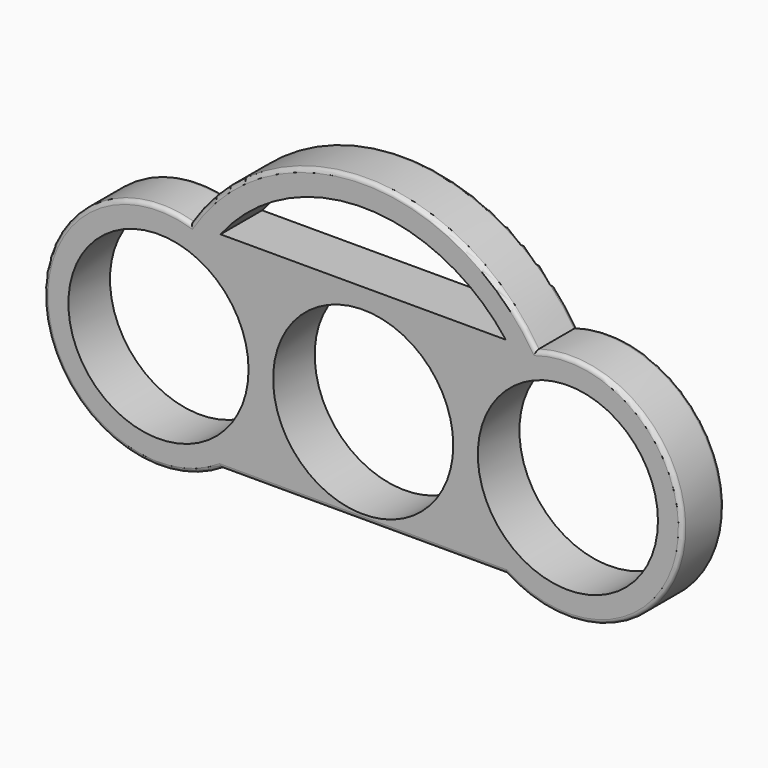
from build123d import *

# Parameters (mm, degrees)
F0_R     = 11
F1_DEPTH = 6.35
F2_R     = 0.5


with BuildPart() as f1:
    # F0 (on Front) → F1 (new body)
    with BuildSketch(Plane.XZ):
        with BuildLine():
            ThreePointArc((21.08, 13.44), (0, 25), (-21.08, 13.44))
            ThreePointArc((-21.08, 13.44), (-38.852036, -2.030049), (-17.388343, -11.750008))
            Line((-17.388343, -11.750008), (17.388343, -11.750008))
            ThreePointArc((17.388343, -11.750008), (38.852036, -2.030049), (21.08, 13.44))
        make_face()
        with Locations((-25, 0)):
            Circle(F0_R, mode=Mode.SUBTRACT)
        Circle(F0_R, mode=Mode.SUBTRACT)
        with Locations((25, 0)):
            Circle(F0_R, mode=Mode.SUBTRACT)
        with BuildLine():
            ThreePointArc((1.5, 21.948804), (10.371456, 19.401879), (17.417417, 13.44))
            Line((17.417417, 13.44), (1.5, 13.44))
            Line((1.5, 13.44), (-17.417417, 13.44))
            ThreePointArc((-17.417417, 13.44), (-9.024465, 20.063874), (1.5, 21.948804))
        make_face(mode=Mode.SUBTRACT)
    extrude(amount=F1_DEPTH)

    # F2
    f2_edges = [f1.edges().sort_by_distance(p)[0] for p in [
        (-38.852036, -6.35, -2.030049),
        (0, -6.35, 25),
        (38.852036, -6.35, -2.030049),
        (0, -6.35, -11.750008),
        (38.852036, 0, -2.030049),
        (0, 0, 25),
        (-38.852036, 0, -2.030049),
        (0, 0, -11.750008),
    ]]
    fillet(f2_edges, radius=F2_R)


solid = f1.part
